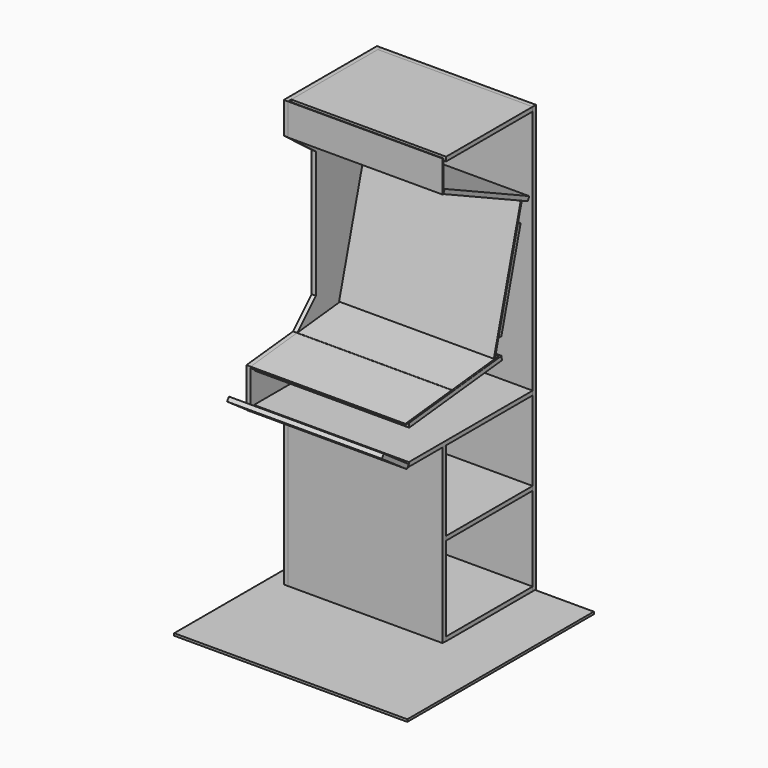
from build123d import *

# Parameters (mm, degrees)
EXTRUDE002_DEPTH       = 18
BOX_W                  = 664
BOX_H                  = 1830
BOX_DEPTH              = 18
BOX_ROLL_ANGLE         = 90
BOX002_W               = 664
BOX002_H               = 136
BOX002_DEPTH           = 3
BOX002_ROLL_ANGLE      = -90
BOX003_W               = 575
BOX003_H               = 95
BOX003_DEPTH           = 15
BOX003_ROLL_ANGLE      = -90
BOX006_W               = 598
BOX006_H               = 5
BOX006_DEPTH           = 338
BOX005_W               = 648
BOX005_H               = 25
BOX005_DEPTH           = 400
CUT_ROLL_ANGLE         = -15
BOX004_W               = 1000
BOX004_H               = 1000
BOX004_DEPTH           = 10
BOX007_W               = 662
BOX007_H               = 740
BOX007_DEPTH           = 18
BOX007_ROLL_ANGLE      = -90
BOX008_W               = 664
BOX008_H               = 464
BOX008_DEPTH           = 18
BOX009_W               = 664
BOX009_H               = 464
BOX009_DEPTH           = 18
BOX010_W               = 664
BOX010_H               = 500
BOX010_DEPTH           = 18
BOX010_PLACEMENT_ANGLE = 25
BOX011_W               = 664
BOX011_H               = 500
BOX011_DEPTH           = 18
BOX011_ROLL_ANGLE      = 6
BOX012_W               = 664
BOX012_H               = 664
BOX012_DEPTH           = 18
BOX013_W               = 664
BOX013_H               = 164
BOX013_DEPTH           = 18
BOX013_PLACEMENT_ANGLE = 145
BOX014_W               = 664
BOX014_H               = 464
BOX014_DEPTH           = 18
BOX015_W               = 664
BOX015_H               = 250
BOX015_DEPTH           = 3
BOX015_ROLL_ANGLE      = 6
BOX016_W               = 664
BOX016_H               = 250
BOX016_DEPTH           = 3
BOX016_ROLL_ANGLE      = 6
BOX017_W               = 664
BOX017_H               = 250
BOX017_DEPTH           = 3
BOX017_ROLL_ANGLE      = 6
BOX018_W               = 664
BOX018_H               = 250
BOX018_DEPTH           = 3
BOX018_ROLL_ANGLE      = 6
BOX019_W               = 664
BOX019_H               = 555
BOX019_DEPTH           = 3
BOX019_PLACEMENT_ANGLE = 75
BOX021_W               = 604
BOX021_H               = 365
BOX021_DEPTH           = 30
BOX021_PLACEMENT_ANGLE = 75
BOX020_W               = 664
BOX020_H               = 555
BOX020_DEPTH           = 3
BOX020_PLACEMENT_ANGLE = 75


with BuildPart() as right_panel:
    # Sketch → Extrude002 (new body)
    with BuildSketch(Plane.YZ):
        Polygon((-100, 70), (400, 70), (400, 1900), (-100, 1900), (-100, 1765), (50, 1650), (50, 1105), (-50, 1005.47467), (-300, 980), (-300, 810), (-100, 810), align=None)
    extrude(amount=EXTRUDE002_DEPTH)


with BuildPart() as right_panel_1:
    # Extrude002 placement: moved
    add(right_panel.part.moved(Location((332, 0, 0))))


with BuildPart() as left_panel:
    # Part__Mirroring: instance of Right Panel
    add(right_panel_1.part.mirror(Plane(origin=(0.000122, 0, 1000.000061), x_dir=(0, -1, 0), z_dir=(1, 0, 0))))


with BuildPart() as back:
    # Box → Box (new body)
    with BuildSketch(Plane.XY):
        with Locations((332, 915)):
            Rectangle(BOX_W, BOX_H)
    extrude(amount=BOX_DEPTH)


with BuildPart() as back_1:
    # Box roll: moved
    add(back.part.rotate(Axis((0, 0, 0), (1, 0, 0)), BOX_ROLL_ANGLE))


with BuildPart() as back_2:
    # Box placement: moved
    add(back_1.part.moved(Location((-332, 400, 70))))


with BuildPart() as top_panel:
    # Box002 → Box002 (new body)
    with BuildSketch(Plane.XY):
        with Locations((332, 68)):
            Rectangle(BOX002_W, BOX002_H)
    extrude(amount=BOX002_DEPTH)


with BuildPart() as top_panel_1:
    # Box002 roll: moved
    add(top_panel.part.rotate(Axis((0, 0, 0), (1, 0, 0)), BOX002_ROLL_ANGLE))


with BuildPart() as top_panel_2:
    # Box002 placement: moved
    add(top_panel_1.part.moved(Location((-332, -100, 1900))))


with BuildPart() as top_led_matrix:
    # Box003 → Box003 (new body)
    with BuildSketch(Plane.XY):
        with Locations((287.5, 47.5)):
            Rectangle(BOX003_W, BOX003_H)
    extrude(amount=BOX003_DEPTH)


with BuildPart() as top_led_matrix_1:
    # Box003 roll: moved
    add(top_led_matrix.part.rotate(Axis((0, 0, 0), (1, 0, 0)), BOX003_ROLL_ANGLE))


with BuildPart() as top_led_matrix_2:
    # Box003 placement: moved
    add(top_led_matrix_1.part.moved(Location((-287.5, -97, 1880))))


with BuildPart() as screen_section:
    # Box006 → Box006 (new body)
    with BuildSketch(Plane(origin=(-299, -2, 37), x_dir=(1, 0, 0), z_dir=(0, 0, 1))):
        with Locations((299, 2.5)):
            Rectangle(BOX006_W, BOX006_H)
    extrude(amount=BOX006_DEPTH)


with BuildPart() as screen:
    # Box005 → Box005 (new body)
    with BuildSketch(Plane(origin=(-324, 0, 0), x_dir=(1, 0, 0), z_dir=(0, 0, 1))):
        with Locations((324, 12.5)):
            Rectangle(BOX005_W, BOX005_H)
    extrude(amount=BOX005_DEPTH)

    # Cut: cut Screen section
    add(screen_section.part, mode=Mode.SUBTRACT)


with BuildPart() as screen_1:
    # Cut roll: moved
    add(screen.part.rotate(Axis((0, 0, 0), (1, 0, 0)), CUT_ROLL_ANGLE))


with BuildPart() as screen_2:
    # Cut placement: moved
    add(screen_1.part.moved(Location((0, 200, 1100))))


with BuildPart() as room_floor:
    # Box004 → Box004 (new body)
    with BuildSketch(Plane(origin=(-500, -500, -10), x_dir=(1, 0, 0), z_dir=(0, 0, 1))):
        with Locations((500, 500)):
            Rectangle(BOX004_W, BOX004_H)
    extrude(amount=BOX004_DEPTH)


with BuildPart() as front_door:
    # Box007 → Box007 (new body)
    with BuildSketch(Plane.XY):
        with Locations((331, 370)):
            Rectangle(BOX007_W, BOX007_H)
    extrude(amount=BOX007_DEPTH)


with BuildPart() as front_door_1:
    # Box007 roll: moved
    add(front_door.part.rotate(Axis((0, 0, 0), (1, 0, 0)), BOX007_ROLL_ANGLE))


with BuildPart() as front_door_2:
    # Box007 placement: moved
    add(front_door_1.part.moved(Location((-331, -100, 810))))


with BuildPart() as floor:
    # Box008 → Box008 (new body)
    with BuildSketch(Plane(origin=(-332, -82, 70), x_dir=(1, 0, 0), z_dir=(0, 0, 1))):
        with Locations((332, 232)):
            Rectangle(BOX008_W, BOX008_H)
    extrude(amount=BOX008_DEPTH)


with BuildPart() as roof:
    # Box009 → Box009 (new body)
    with BuildSketch(Plane(origin=(-332, -82, 1882), x_dir=(1, 0, 0), z_dir=(0, 0, 1))):
        with Locations((332, 232)):
            Rectangle(BOX009_W, BOX009_H)
    extrude(amount=BOX009_DEPTH)


with BuildPart() as ceiling:
    # Box010 → Box010 (new body)
    with BuildSketch(Plane.XY):
        with Locations((332, 250)):
            Rectangle(BOX010_W, BOX010_H)
    extrude(amount=BOX010_DEPTH)


with BuildPart() as ceiling_1:
    # Box010 placement: moved
    add(ceiling.part.moved(Location((-332, -97, 1765))).rotate(Axis((-332, -97, 1765), (-1, 0, 0)), BOX010_PLACEMENT_ANGLE))


with BuildPart() as top_shelf:
    # Box011 → Box011 (new body)
    with BuildSketch(Plane.XY):
        with Locations((332, 250)):
            Rectangle(BOX011_W, BOX011_H)
    extrude(amount=BOX011_DEPTH)


with BuildPart() as top_shelf_1:
    # Box011 roll: moved
    add(top_shelf.part.rotate(Axis((0, 0, 0), (1, 0, 0)), BOX011_ROLL_ANGLE))


with BuildPart() as top_shelf_2:
    # Box011 placement: moved
    add(top_shelf_1.part.moved(Location((-332, -280, 957))))


with BuildPart() as bottom_shelf:
    # Box012 → Box012 (new body)
    with BuildSketch(Plane(origin=(-332, -282, 810), x_dir=(1, 0, 0), z_dir=(0, 0, 1))):
        with Locations((332, 332)):
            Rectangle(BOX012_W, BOX012_H)
    extrude(amount=BOX012_DEPTH)


with BuildPart() as keyboard_panel:
    # Box013 → Box013 (new body)
    with BuildSketch(Plane.XY):
        with Locations((332, 82)):
            Rectangle(BOX013_W, BOX013_H)
    extrude(amount=BOX013_DEPTH)


with BuildPart() as keyboard_panel_1:
    # Box013 placement: moved
    add(keyboard_panel.part.moved(Location((-332, -282, 820))).rotate(Axis((-332, -282, 820), (1, 0, 0)), BOX013_PLACEMENT_ANGLE))


with BuildPart() as main_shelf:
    # Box014 → Box014 (new body)
    with BuildSketch(Plane(origin=(-332, -82, 450), x_dir=(1, 0, 0), z_dir=(0, 0, 1))):
        with Locations((332, 232)):
            Rectangle(BOX014_W, BOX014_H)
    extrude(amount=BOX014_DEPTH)


with BuildPart() as black_plexiglass:
    # Box015 → Box015 (new body)
    with BuildSketch(Plane.XY):
        with Locations((332, 125)):
            Rectangle(BOX015_W, BOX015_H)
    extrude(amount=BOX015_DEPTH)


with BuildPart() as black_plexiglass_1:
    # Box015 roll: moved
    add(black_plexiglass.part.rotate(Axis((0, 0, 0), (1, 0, 0)), BOX015_ROLL_ANGLE))


with BuildPart() as black_plexiglass_2:
    # Box015 placement: moved
    add(black_plexiglass_1.part.moved(Location((-332, -300, 974))))


with BuildPart() as obj1:
    # Box016 → Box016 (new body)
    with BuildSketch(Plane.XY):
        with Locations((332, 125)):
            Rectangle(BOX016_W, BOX016_H)
    extrude(amount=BOX016_DEPTH)


with BuildPart() as obj1_1:
    # Box016 roll: moved
    add(obj1.part.rotate(Axis((0, 0, 0), (1, 0, 0)), BOX016_ROLL_ANGLE))


with BuildPart() as obj1_2:
    # Box016 placement: moved
    add(obj1_1.part.moved(Location((-332, -300, 977))))


with BuildPart() as box017:
    # Box017 → Box017 (new body)
    with BuildSketch(Plane.XY):
        with Locations((332, 125)):
            Rectangle(BOX017_W, BOX017_H)
    extrude(amount=BOX017_DEPTH)


with BuildPart() as box017_1:
    # Box017 roll: moved
    add(box017.part.rotate(Axis((0, 0, 0), (1, 0, 0)), BOX017_ROLL_ANGLE))


with BuildPart() as box017_2:
    # Box017 placement: moved
    add(box017_1.part.moved(Location((-332, -50, 1000))))


with BuildPart() as box018:
    # Box018 → Box018 (new body)
    with BuildSketch(Plane.XY):
        with Locations((332, 125)):
            Rectangle(BOX018_W, BOX018_H)
    extrude(amount=BOX018_DEPTH)


with BuildPart() as box018_1:
    # Box018 roll: moved
    add(box018.part.rotate(Axis((0, 0, 0), (1, 0, 0)), BOX018_ROLL_ANGLE))


with BuildPart() as box018_2:
    # Box018 placement: moved
    add(box018_1.part.moved(Location((-332, -50, 1003))))


with BuildPart() as screen_protection:
    # Box019 → Box019 (new body)
    with BuildSketch(Plane.XY):
        with Locations((332, 277.5)):
            Rectangle(BOX019_W, BOX019_H)
    extrude(amount=BOX019_DEPTH)


with BuildPart() as screen_protection_1:
    # Box019 placement: moved
    add(screen_protection.part.moved(Location((-332, 177, 1032))).rotate(Axis((-332, 177, 1032), (1, 0, 0)), BOX019_PLACEMENT_ANGLE))


with BuildPart() as screen_mask_cutout:
    # Box021 → Box021 (new body)
    with BuildSketch(Plane.XY):
        with Locations((302, 182.5)):
            Rectangle(BOX021_W, BOX021_H)
    extrude(amount=BOX021_DEPTH)


with BuildPart() as screen_mask_cutout_1:
    # Box021 placement: moved
    add(screen_mask_cutout.part.moved(Location((-302, 215, 1120))).rotate(Axis((-302, 215, 1120), (1, 0, 0)), BOX021_PLACEMENT_ANGLE))


with BuildPart() as screen_mask:
    # Box020 → Box020 (new body)
    with BuildSketch(Plane.XY):
        with Locations((332, 277.5)):
            Rectangle(BOX020_W, BOX020_H)
    extrude(amount=BOX020_DEPTH)


with BuildPart() as screen_mask_1:
    # Box020 placement: moved
    add(screen_mask.part.moved(Location((-332, 180, 1032))).rotate(Axis((-332, 180, 1032), (1, 0, 0)), BOX020_PLACEMENT_ANGLE))

    # Cut001: cut Screen Mask Cutout
    add(screen_mask_cutout_1.part, mode=Mode.SUBTRACT)


solid = Compound([left_panel.part, back_2.part, top_panel_2.part, top_led_matrix_2.part, screen_2.part, room_floor.part, front_door_2.part, floor.part, roof.part, ceiling_1.part, top_shelf_2.part, bottom_shelf.part, keyboard_panel_1.part, main_shelf.part, black_plexiglass_2.part, obj1_2.part, box017_2.part, box018_2.part, screen_protection_1.part, screen_mask_1.part])
